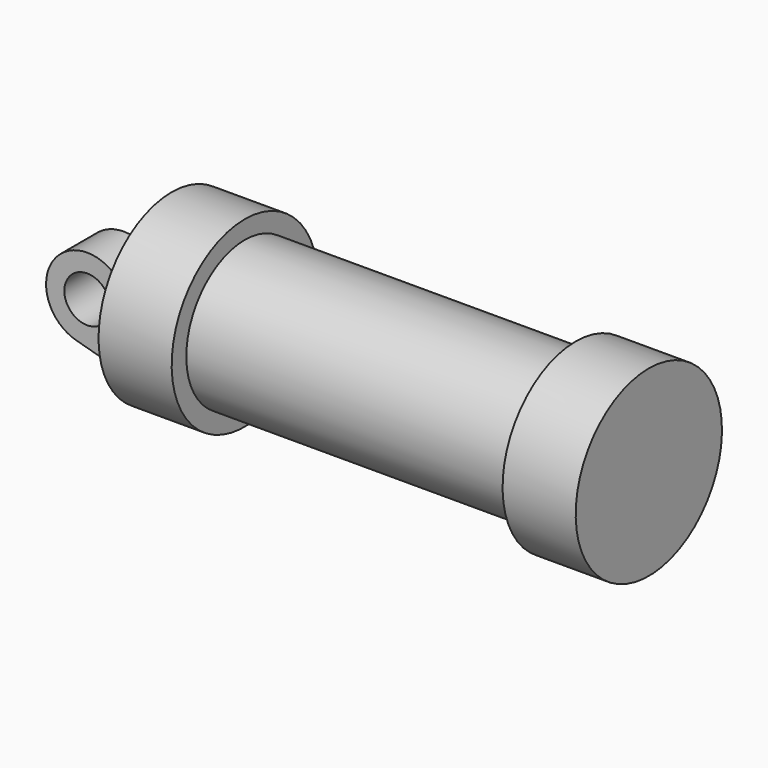
from build123d import *

# Parameters (mm, degrees)
F0_W     = 5.842
F0_H     = 12.7
F0_R     = 3.175
F3_DEPTH = 6.35


with BuildPart() as f1:
    # F0 (on Front) → F1 (revolve)
    with BuildSketch(Plane.XZ):
        with Locations((2.921, 6.35)):
            Rectangle(F0_W, F0_H)
    revolve(axis=Axis((33.147, 0, 0), (-1, 0, 0)))

    # F0 (on Front) → F2 (revolve)
    with BuildSketch(Plane.XZ):
        Polygon((5.842, 12.7), (5.842, 0), (66.294, 0), (66.294, 12.7), (56.134, 12.7), (56.134, 10.16), (10.16, 10.16), (10.16, 12.7), align=None)
    revolve(axis=Axis((33.147, 0, 0), (-1, 0, 0)))

    # F0 (on Front) → F3 (join)
    with BuildSketch(Plane.XZ):
        with BuildLine():
            ThreePointArc((-8.182663, -5.506983), (-3.195791, -4.549339), (-0.9398, 0))
            ThreePointArc((-0.9398, 0), (-4.591961, 5.329721), (-10.88063, 3.847543))
            ThreePointArc((-10.88063, 3.847543), (-12.145978, -1.583727), (-8.182663, -5.506983))
        make_face()
        with Locations((-6.6548, 0)):
            Circle(F0_R, mode=Mode.SUBTRACT)
        with BuildLine():
            Line((5.842, 0), (0, 0))
            Line((0, 0), (-0.9398, 0))
            ThreePointArc((-0.9398, 0), (-3.195791, -4.549339), (-8.182663, -5.506983))
            Line((-8.182663, -5.506983), (5.842, -9.398))
            Line((5.842, -9.398), (5.842, 0))
        make_face()
    extrude(amount=F3_DEPTH)


solid = f1.part
